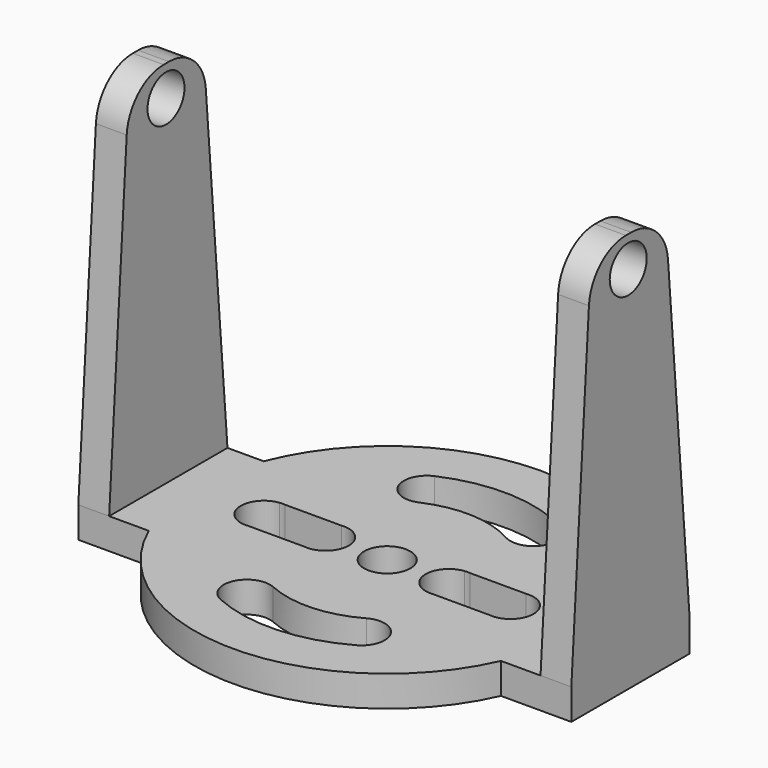
from build123d import *

# Parameters (mm, degrees)
F0_R      = 12.5
F2_DEPTH  = 2
F3_DEPTH  = 2
F6_DEPTH  = 2
F7_DEPTH  = 2
F9_R      = 3
F8_R      = 1.5
F10_DEPTH = 50
F13_DEPTH = 25
F14_R     = 1.5
F15_DEPTH = 4


with BuildPart() as f2:
    # F0 (on Top) → F2 (new body)
    with BuildSketch(Plane.XY):
        Circle(F0_R)
    extrude(amount=F2_DEPTH)

    # F1 (on Top) → F3 (join)
    with BuildSketch(Plane.XY):
        Polygon((-16, 4.5392797553), (-16, 0), (-16, -5.0607202447), (16, -5.0607202447), (16, 4.5392797553), align=None)
    extrude(amount=F3_DEPTH)

    # F4 (on face) → F6 (join)
    with BuildSketch(Plane.YZ.offset(16)):
        Polygon((-3.447040217, 26), (-5.0607202447, 2), (4.5392797553, 2), (2.552959783, 26), align=None)
    extrude(amount=-F6_DEPTH)

    # F5 (on face) → F7 (join)
    with BuildSketch(Plane(origin=(-16, 0, 0), x_dir=(0, -1, 0), z_dir=(-1, 0, 0))):
        Polygon((-2.552959783, 26), (-4.5392797553, 2), (5.0607202447, 2), (3.447040217, 26), align=None)
    extrude(amount=-F7_DEPTH)

    # F9
    f9_edges = [f2.edges().sort_by_distance(p)[0] for p in [
        (-15, 2.55296, 26),
        (-15, -3.44704, 26),
        (15, 2.55296, 26),
        (15, -3.44704, 26),
    ]]
    fillet(f9_edges, radius=F9_R)

    # F8 (on face) → F10 (cut)
    with BuildSketch(Plane(origin=(-16, 0, 0), x_dir=(0, -1, 0), z_dir=(-1, 0, 0))):
        with Locations((0.447040217, 24)):
            Circle(F8_R)
    extrude(amount=-F10_DEPTH, mode=Mode.SUBTRACT)

    # F12 (on face) → F13 (cut)
    with BuildSketch(Plane(origin=(0, 0, 0), x_dir=(1, 0, 0), z_dir=(0, 0, -1))):
        with BuildLine():
            ThreePointArc((-3.8775368017, 8.6726413711), (-4.6346585758, 6.6910342912), (-2.6530514959, 5.933912517))
            ThreePointArc((-2.6530514959, 5.933912517), (0.2938735431, 6.4933533972), (3.1782167937, 5.670003352))
            ThreePointArc((3.1782167937, 5.670003352), (5.2201137504, 6.2450310193), (4.6450860831, 8.286927976))
            ThreePointArc((4.6450860831, 8.286927976), (0.4295074861, 9.4902857343), (-3.8775368017, 8.6726413711))
        make_face()
        with BuildLine():
            ThreePointArc((-2.6530514959, -5.933912517), (-4.6346585758, -6.6910342912), (-3.8775368017, -8.6726413711))
            ThreePointArc((-3.8775368017, -8.6726413711), (0.4295074861, -9.4902857343), (4.6450860831, -8.286927976))
            ThreePointArc((4.6450860831, -8.286927976), (5.2201137504, -6.2450310193), (3.1782167937, -5.670003352))
            ThreePointArc((3.1782167937, -5.670003352), (0.2938735431, -6.4933533972), (-2.6530514959, -5.933912517))
        make_face()
    extrude(amount=-F13_DEPTH, mode=Mode.SUBTRACT)

    # F14 (on face) → F15 (cut)
    with BuildSketch(Plane(origin=(0, 0, 0), x_dir=(1, 0, 0), z_dir=(0, 0, -1))):
        with BuildLine():
            ThreePointArc((-4.1741742618, -1.4898534581), (-3.0028193225, -1.1205492833), (-2.5, 0))
            ThreePointArc((-2.5, 0), (-3.0028193225, 1.1205492833), (-4.1741742618, 1.4898534581))
            Line((-4.1741742618, 1.4898534581), (-4.1741742618, -1.4898534581))
        make_face()
        with BuildLine():
            Line((-4.1741742618, -1.4898534581), (-4.1741742618, 1.4898534581))
            ThreePointArc((-4.1741742618, 1.4898534581), (-5.5, 0), (-4.1741742618, -1.4898534581))
        make_face()
        with BuildLine():
            ThreePointArc((-4.1741742618, -1.4898534581), (-5.5, 0), (-4.1741742618, 1.4898534581))
            Line((-4.1741742618, 1.4898534581), (-7.8258257382, 1.4898534581))
            ThreePointArc((-7.8258257382, 1.4898534581), (-6.8794507167, 0.9971806775), (-6.5, 0))
            ThreePointArc((-6.5, 0), (-6.8794507167, -0.9971806775), (-7.8258257382, -1.4898534581))
            Line((-7.8258257382, -1.4898534581), (-4.1741742618, -1.4898534581))
        make_face()
        with BuildLine():
            Line((-8.1741742618, 1.4898534581), (-7.8258257382, 1.4898534581))
            ThreePointArc((-7.8258257382, 1.4898534581), (-8, 1.5), (-8.1741742618, 1.4898534581))
        make_face()
        with BuildLine():
            ThreePointArc((-6.5, 0), (-6.8794507167, 0.9971806775), (-7.8258257382, 1.4898534581))
            Line((-7.8258257382, 1.4898534581), (-8.1741742618, 1.4898534581))
            Line((-8.1741742618, 1.4898534581), (-8.1741742618, -1.4898534581))
            Line((-8.1741742618, -1.4898534581), (-7.8258257382, -1.4898534581))
            ThreePointArc((-7.8258257382, -1.4898534581), (-6.8794507167, -0.9971806775), (-6.5, 0))
        make_face()
        with BuildLine():
            ThreePointArc((-8.1741742618, -1.4898534581), (-8, -1.5), (-7.8258257382, -1.4898534581))
            Line((-7.8258257382, -1.4898534581), (-8.1741742618, -1.4898534581))
        make_face()
        with BuildLine():
            Line((-8.1741742618, -1.4898534581), (-8.1741742618, 1.4898534581))
            ThreePointArc((-8.1741742618, 1.4898534581), (-9.5, 0), (-8.1741742618, -1.4898534581))
        make_face()
        with BuildLine():
            ThreePointArc((4.1741742618, 1.4898534581), (4, 1.5), (3.8258257382, 1.4898534581))
            Line((3.8258257382, 1.4898534581), (4.1741742618, 1.4898534581))
        make_face()
        with BuildLine():
            Line((3.8258257382, -1.4898534581), (3.8258257382, 1.4898534581))
            ThreePointArc((3.8258257382, 1.4898534581), (2.5, 0), (3.8258257382, -1.4898534581))
        make_face()
        with BuildLine():
            Line((4.1741742618, 1.4898534581), (3.8258257382, 1.4898534581))
            Line((3.8258257382, 1.4898534581), (3.8258257382, -1.4898534581))
            Line((3.8258257382, -1.4898534581), (4.1741742618, -1.4898534581))
            ThreePointArc((4.1741742618, -1.4898534581), (5.1205492833, -0.9971806775), (5.5, 0))
            ThreePointArc((5.5, 0), (5.1205492833, 0.9971806775), (4.1741742618, 1.4898534581))
        make_face()
        with BuildLine():
            Line((7.8258257382, 1.4898534581), (4.1741742618, 1.4898534581))
            ThreePointArc((4.1741742618, 1.4898534581), (5.1205492833, 0.9971806775), (5.5, 0))
            ThreePointArc((5.5, 0), (5.1205492833, -0.9971806775), (4.1741742618, -1.4898534581))
            Line((4.1741742618, -1.4898534581), (7.8258257382, -1.4898534581))
            ThreePointArc((7.8258257382, -1.4898534581), (6.5, 0), (7.8258257382, 1.4898534581))
        make_face()
        with BuildLine():
            Line((4.1741742618, -1.4898534581), (3.8258257382, -1.4898534581))
            ThreePointArc((3.8258257382, -1.4898534581), (4, -1.5), (4.1741742618, -1.4898534581))
        make_face()
        with BuildLine():
            Line((7.8258257382, -1.4898534581), (7.8258257382, 1.4898534581))
            ThreePointArc((7.8258257382, 1.4898534581), (6.5, 0), (7.8258257382, -1.4898534581))
        make_face()
        with BuildLine():
            ThreePointArc((9.5, 0), (8.9971806775, 1.1205492833), (7.8258257382, 1.4898534581))
            Line((7.8258257382, 1.4898534581), (7.8258257382, -1.4898534581))
            ThreePointArc((7.8258257382, -1.4898534581), (8.9971806775, -1.1205492833), (9.5, 0))
        make_face()
        Circle(F14_R)
    extrude(amount=-F15_DEPTH, mode=Mode.SUBTRACT)


solid = f2.part
